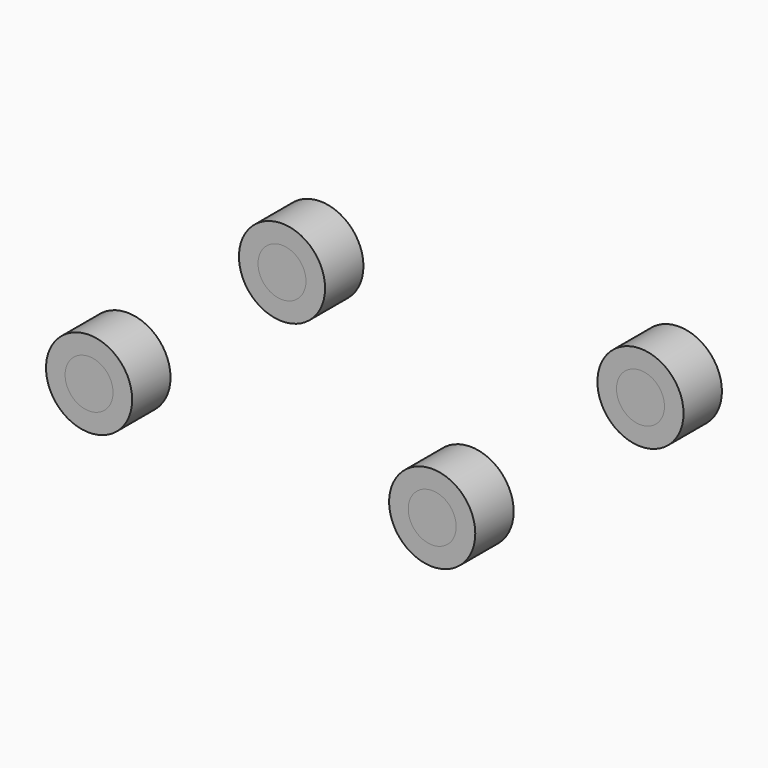
from build123d import *

# Parameters (mm, degrees)
F2_R     = 127.5
F3_DEPTH = 127.5
F2_R_2   = 229
F4_DEPTH = 127.5
F7_R     = 229
F7_R_2   = 127.5
F8_DEPTH = 127.5
F9_DEPTH = 127.5


with BuildPart() as f3:
    # F2 (on offset) → F3 (new body, symmetric)
    with BuildSketch(Plane.XZ.offset(692)):
        with Locations((932.5, 0)):
            Circle(F2_R)
    extrude(amount=F3_DEPTH, both=True)


with BuildPart() as f4:
    # F2 (on offset) → F4 (new body, symmetric)
    with BuildSketch(Plane.XZ.offset(692)):
        with Locations((932.5, 0)):
            Circle(F2_R_2)
        with Locations((932.5, 0)):
            Circle(F2_R, mode=Mode.SUBTRACT)
    extrude(amount=F4_DEPTH, both=True)


with BuildPart() as f5_1:
    # F5: instance of F3
    add(f3.part.mirror(Plane.XZ))


with BuildPart() as f5_2:
    # F5: instance of F4
    add(f4.part.mirror(Plane.XZ))


with BuildPart() as f8:
    # F7 (on offset) → F8 (new body, symmetric)
    with BuildSketch(Plane.XZ.offset(641)):
        with Locations((-932.5, 0)):
            Circle(F7_R)
        with Locations((-932.5, 0)):
            Circle(F7_R_2, mode=Mode.SUBTRACT)
    extrude(amount=F8_DEPTH, both=True)


with BuildPart() as f9:
    # F7 (on offset) → F9 (new body, symmetric)
    with BuildSketch(Plane.XZ.offset(641)):
        with Locations((-932.5, 0)):
            Circle(F7_R_2)
    extrude(amount=F9_DEPTH, both=True)


with BuildPart() as f10_1:
    # F10: instance of F8
    add(f8.part.mirror(Plane.XZ))


with BuildPart() as f10_2:
    # F10: instance of F9
    add(f9.part.mirror(Plane.XZ))


solid = Compound([f3.part, f4.part, f5_1.part, f5_2.part, f8.part, f9.part, f10_1.part, f10_2.part])
